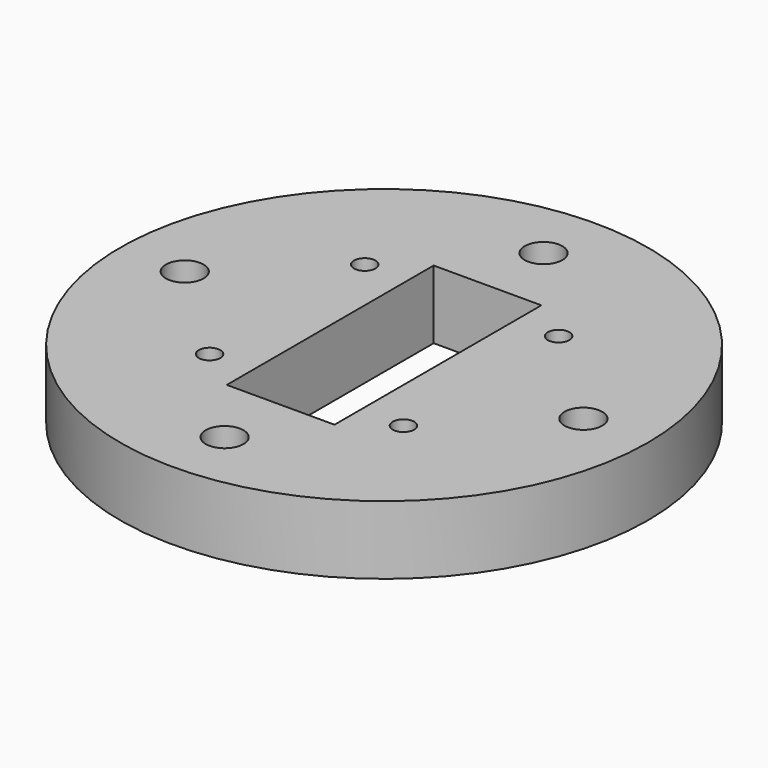
from build123d import *

# Parameters (mm, degrees)
F0_R     = 24.5
F0_R_2   = 1.75
F0_R_3   = 1
F0_W     = 10
F0_H     = 24
F1_DEPTH = 6.35


with BuildPart() as f1:
    # F0 (on Top) → F1 (new body)
    with BuildSketch(Plane.XY):
        Circle(F0_R)
        with Locations((0, -18.5)):
            Circle(F0_R_2, mode=Mode.SUBTRACT)
        with Locations((-18.5, 0)):
            Circle(F0_R_2, mode=Mode.SUBTRACT)
        with Locations((-9, -9)):
            Circle(F0_R_3, mode=Mode.SUBTRACT)
        Rectangle(F0_W, F0_H, mode=Mode.SUBTRACT)
        with Locations((9, -9)):
            Circle(F0_R_3, mode=Mode.SUBTRACT)
        with Locations((18.5, 0)):
            Circle(F0_R_2, mode=Mode.SUBTRACT)
        with Locations((-9, 9)):
            Circle(F0_R_3, mode=Mode.SUBTRACT)
        with Locations((0, 18.5)):
            Circle(F0_R_2, mode=Mode.SUBTRACT)
        with Locations((9, 9)):
            Circle(F0_R_3, mode=Mode.SUBTRACT)
    extrude(amount=F1_DEPTH)


solid = f1.part
